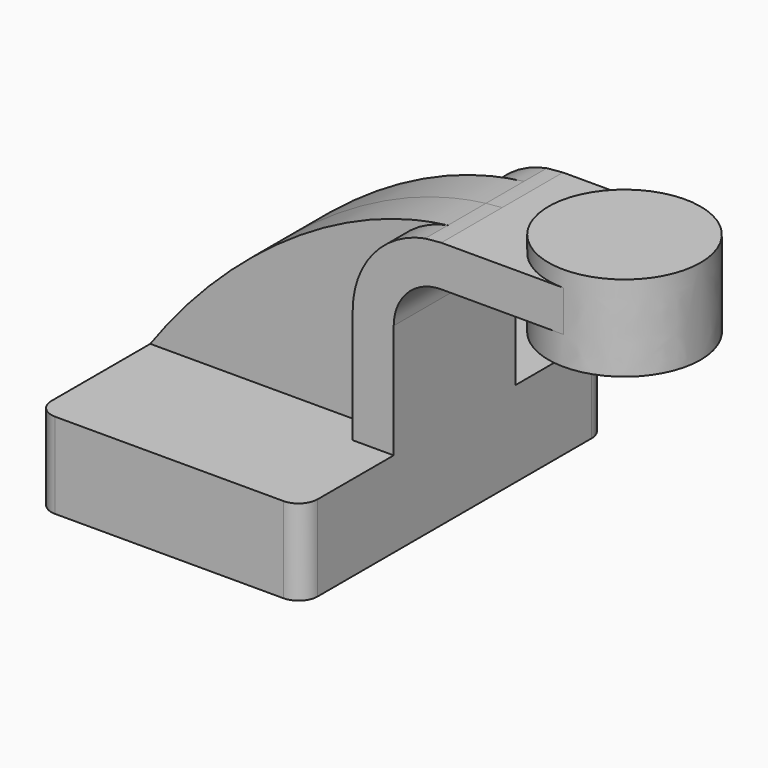
from build123d import *

# Parameters (mm, degrees)
F1_DEPTH = 63.5
F2_DEPTH = 25.4
F3_DEPTH = 15.875
F5_R     = 6.35


with BuildPart() as f1:
    # F0 (on Front) → F1 (new body, symmetric)
    with BuildSketch(Plane.XZ):
        Polygon((30.7617224753, 14.2875), (-44.45, 14.2875), (-44.45, -14.2875), (44.45, -14.2875), (44.45, 14.2875), align=None)
    extrude(amount=F1_DEPTH, both=True)

    # F0 (on Front) → F2 (join, symmetric)
    with BuildSketch(Plane.XZ):
        with BuildLine():
            Line((30.7617224753, 52.3875), (30.7617224753, 14.2875))
            Line((30.7617224753, 14.2875), (44.45, 14.2875))
            Line((44.45, 14.2875), (44.45, 52.3875))
            ThreePointArc((44.45, 52.3875), (49.0996798487, 63.6128201513), (60.325, 68.2625))
            Line((60.325, 68.2625), (75.7897496223, 68.2625))
            Line((75.7897496223, 68.2625), (75.7897496223, 81.9507775247))
            Line((75.7897496223, 81.9507775247), (60.325, 81.9507775247))
            add(Edge.make_bspline(
                [(54.9267858452, 81.4537460931), (56.7210795093, 81.6729876967), (58.5208597277, 81.8394540981), (60.325, 81.9507775247)],
                knots=[119.3724573368, 119.3724573368, 119.3724573368, 119.3724573368, 124.7241746831, 124.7241746831, 124.7241746831, 124.7241746831], degree=3))
            ThreePointArc((54.9267858452, 81.4537460931), (37.5920252585, 71.2872152731), (30.7617224753, 52.3875))
        make_face()
        Polygon((101.1993896154, 81.9507775247), (75.7897496223, 81.9507775247), (75.7897496223, 68.2625), (101.1937051574, 68.2625), align=None)
    extrude(amount=F2_DEPTH, both=True)

    # F0 (on Front) → F3 (join, symmetric)
    with BuildSketch(Plane.XZ):
        with BuildLine():
            add(Edge.make_bspline(
                [(-44.45, 14.2875), (-22.3885229669, 45.4157741444), (14.904260364, 76.5634637243), (54.9267858452, 81.4537460931)],
                knots=[0, 0, 0, 0, 119.3724573368, 119.3724573368, 119.3724573368, 119.3724573368], degree=3))
            Line((-44.45, 14.2875), (30.7617224753, 14.2875))
            Line((30.7617224753, 14.2875), (30.7617224753, 52.3875))
            ThreePointArc((30.7617224753, 52.3875), (37.5920252585, 71.2872152731), (54.9267858452, 81.4537460931))
        make_face()
    extrude(amount=F3_DEPTH, both=True)

    # F0 (on Front) → F4 (revolve)
    with BuildSketch(Plane.XZ):
        Polygon((101.2016162276, 87.3125), (101.1993896154, 81.9507775247), (101.1937051574, 68.2625), (101.1897496223, 58.7375), (126.5897496223, 58.7375), (126.5897496223, 87.3125), align=None)
    revolve(axis=Axis((101.195682925, 0, 73.025), (0.0004152792, 0, 0.9999999138)))

    # F5
    f5_edges = [f1.edges().sort_by_distance(p)[0] for p in [
        (-44.45, 63.5, 0),
        (-44.45, -63.5, 0),
        (44.45, 63.5, 0),
        (44.45, -63.5, 0),
    ]]
    fillet(f5_edges, radius=F5_R)


solid = f1.part
